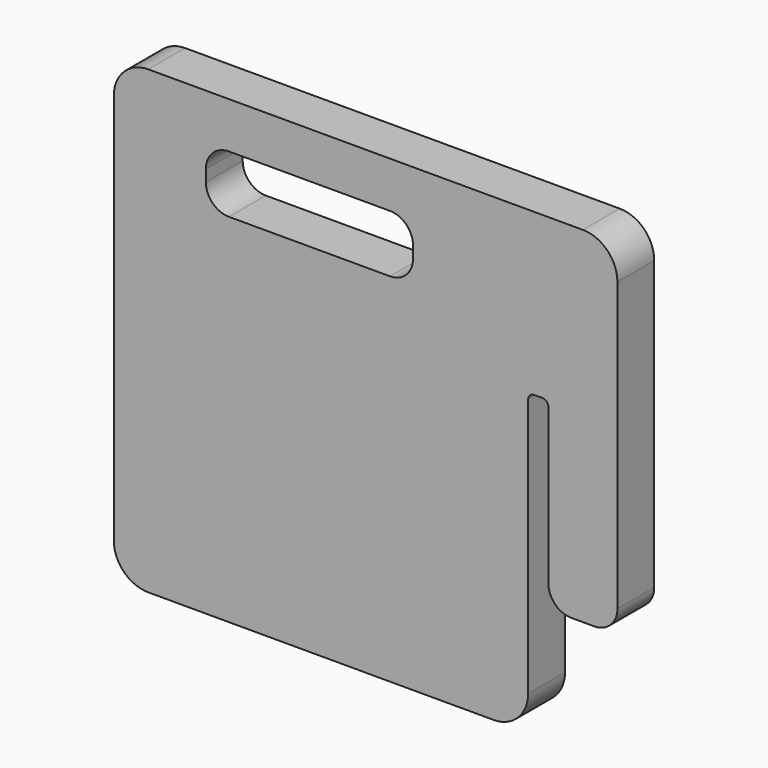
from build123d import *

# Parameters (mm, degrees)
F1_DEPTH = 25.4
F3_DEPTH = 25.401


with BuildPart() as f1:
    # F0 (on Front) → F1 (new body)
    with BuildSketch(Plane.XZ):
        with BuildLine():
            Line((170.549796, 190.5), (-69.162704, 190.5))
            ThreePointArc((-69.162704, 190.5), (-82.633088, 184.920384), (-88.212704, 171.45))
            Line((-88.212704, 171.45), (-88.212704, -44.45))
            ThreePointArc((-88.212704, -44.45), (-82.633088, -57.920384), (-69.162704, -63.5))
            Line((-69.162704, -63.5), (121.337296, -63.5))
            ThreePointArc((121.337296, -63.5), (134.80768, -57.920384), (140.387296, -44.45))
            Line((140.387296, -44.45), (140.387296, 98.425))
            ThreePointArc((140.387296, 98.425), (141.317232, 100.670064), (143.562296, 101.6))
            Line((143.562296, 101.6), (148.324796, 101.6))
            ThreePointArc((148.324796, 101.6), (150.56986, 100.670064), (151.499796, 98.425))
            Line((151.499796, 98.425), (151.499796, 12.7))
            ThreePointArc((151.499796, 12.7), (155.21954, 3.719744), (164.199796, 0))
            Line((164.199796, 0), (176.899796, 0))
            ThreePointArc((176.899796, 0), (185.880052, 3.719744), (189.599796, 12.7))
            Line((189.599796, 12.7), (189.599796, 171.45))
            ThreePointArc((189.599796, 171.45), (184.02018, 184.920384), (170.549796, 190.5))
        make_face()
    extrude(amount=F1_DEPTH)

    # F2 (on face) → F3 (cut, through all)
    with BuildSketch(Plane.XZ.offset(25.4)):
        with BuildLine():
            Line((64.187296, 165.1), (-24.712704, 165.1))
            ThreePointArc((-24.712704, 165.1), (-33.69296, 161.380256), (-37.412704, 152.4))
            Line((-37.412704, 152.4), (-37.412704, 146.05))
            ThreePointArc((-37.412704, 146.05), (-33.69296, 137.069744), (-24.712704, 133.35))
            Line((-24.712704, 133.35), (64.187296, 133.35))
            ThreePointArc((64.187296, 133.35), (73.167552, 137.069744), (76.887296, 146.05))
            Line((76.887296, 146.05), (76.887296, 152.4))
            ThreePointArc((76.887296, 152.4), (73.167552, 161.380256), (64.187296, 165.1))
        make_face()
    extrude(amount=-F3_DEPTH, mode=Mode.SUBTRACT)


solid = f1.part
